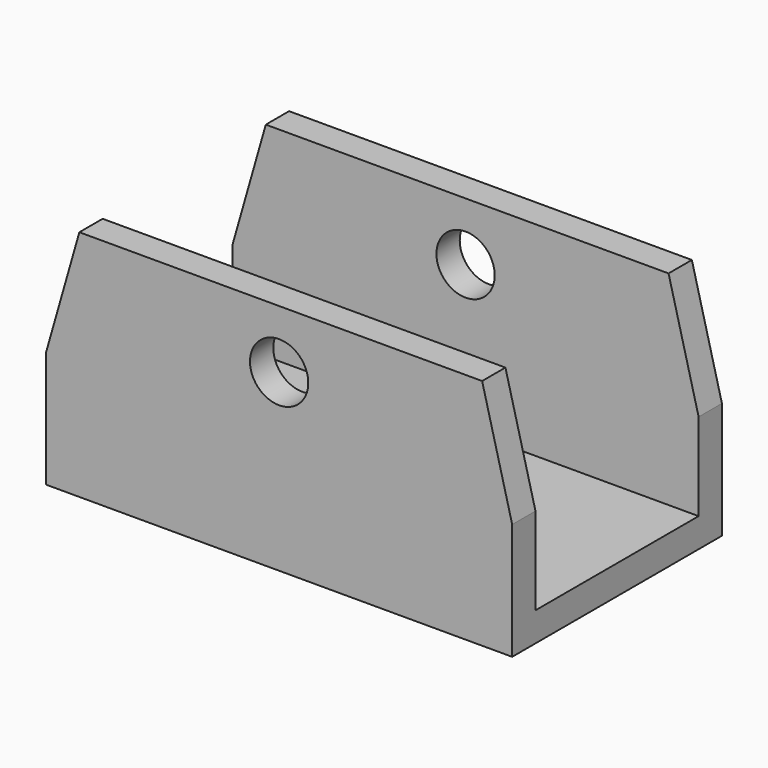
from build123d import *

# Parameters (mm, degrees)
F1_DEPTH = 28.575
F2_W     = 44.45
F2_H     = 44.45
F3_DEPTH = 127
F4_R     = 6.35
F5_DEPTH = 57.151


with BuildPart() as f1:
    # F0 (on Front) → F1 (new body, symmetric)
    with BuildSketch(Plane.XZ):
        Polygon((-50.8, 25.4), (-50.8, 0), (50.8, 0), (50.8, 25.4), (44.247393, 50.8), (-43.547828, 50.8), align=None)
    extrude(amount=F1_DEPTH, both=True)

    # F2 (on face) → F3 (cut)
    with BuildSketch(Plane(origin=(-50.8, 0, 0), x_dir=(0, -1, 0), z_dir=(-1, 0, 0))):
        with Locations((0, 28.575)):
            Rectangle(F2_W, F2_H)
    extrude(amount=-F3_DEPTH, mode=Mode.SUBTRACT)

    # F4 (on face) → F5 (cut, through all)
    with BuildSketch(Plane(origin=(0, 28.575, 0), x_dir=(-1, 0, 0), z_dir=(0, 1, 0))):
        with Locations((0, 38.1)):
            Circle(F4_R)
    extrude(amount=-F5_DEPTH, mode=Mode.SUBTRACT)


solid = f1.part
